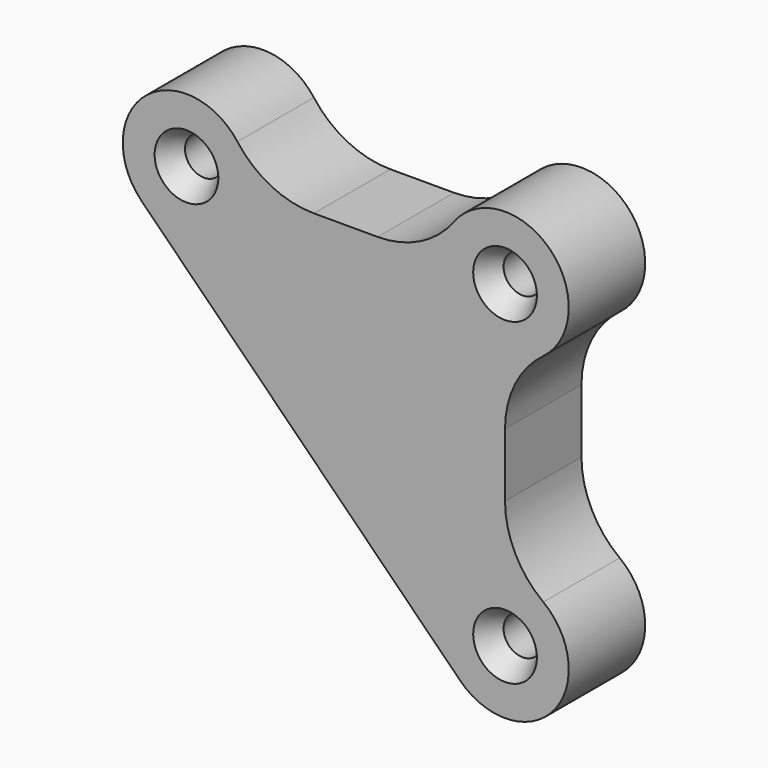
from build123d import *

# Parameters (mm, degrees)
F1_DEPTH       = 9.525
F3_D           = 3.81
F3_CSINK_D     = 6.35
F3_CSINK_ANGLE = 60
F5_DEPTH       = 9.525
F5_DEPTH_BACK  = 1.5875
F7_DEPTH       = 25.4


with BuildPart() as f1:
    # F0 (on Front) → F1 (new body)
    with BuildSketch(Plane.XZ):
        with BuildLine():
            ThreePointArc((0, 19.05), (-4.259709, 20.055581), (-7.62, 22.86))
            ThreePointArc((-7.62, 22.86), (-18.379613, 21.889806), (-12.7, 12.7))
            Line((-12.7, 12.7), (12.7, 12.7))
            Line((12.7, 12.7), (12.7, -12.7))
            ThreePointArc((12.7, -12.7), (21.889806, -18.379613), (22.86, -7.62))
            ThreePointArc((22.86, -7.62), (20.055581, -4.259709), (19.05, 0))
            Line((19.05, 0), (19.05, 6.35))
            ThreePointArc((19.05, 6.35), (20.055581, 10.609709), (22.86, 13.97))
            ThreePointArc((22.86, 13.97), (23.540128, 23.540128), (13.97, 22.86))
            ThreePointArc((13.97, 22.86), (10.609709, 20.055581), (6.35, 19.05))
            Line((6.35, 19.05), (0, 19.05))
        make_face()
    extrude(amount=F1_DEPTH)

    # F3 (through all)
    with Locations(Plane.XZ.offset(9.525)):
        with Locations((-12.7, 19.05), (19.05, 19.05), (19.05, -12.7)):
            CounterSinkHole(F3_D / 2, F3_CSINK_D / 2, counter_sink_angle=F3_CSINK_ANGLE)

    # F4 (on Front) → F5 (join, two sides)
    with BuildSketch(Plane.XZ) as f5_sk:
        with BuildLine():
            Line((12.7, -12.7), (12.7, 12.7))
            Line((12.7, 12.7), (-12.7, 12.7))
            ThreePointArc((-12.7, 12.7), (-15.13004, 13.183365), (-17.190128, 14.559872))
            Line((-17.190128, 14.559872), (14.559872, -17.190128))
            ThreePointArc((14.559872, -17.190128), (13.183365, -15.13004), (12.7, -12.7))
        make_face()
    extrude(amount=F5_DEPTH)
    extrude(f5_sk.sketch, amount=-F5_DEPTH_BACK)

    # F6 (on face) → F7 (cut)
    with BuildSketch(Plane(origin=(0, 0, 0), x_dir=(-1, 0, 0), z_dir=(0, 1, 0))):
        Polygon((-12.7, -24.797732), (-12.7, -12.7), (-12.7, 12.7), (12.7, 12.7), (24.978289, 12.7), (24.821575, 21.179355), (-31.780545, 20.13324), (-31.780545, -24.797732), align=None)
    extrude(amount=F7_DEPTH, mode=Mode.SUBTRACT)


solid = f1.part
